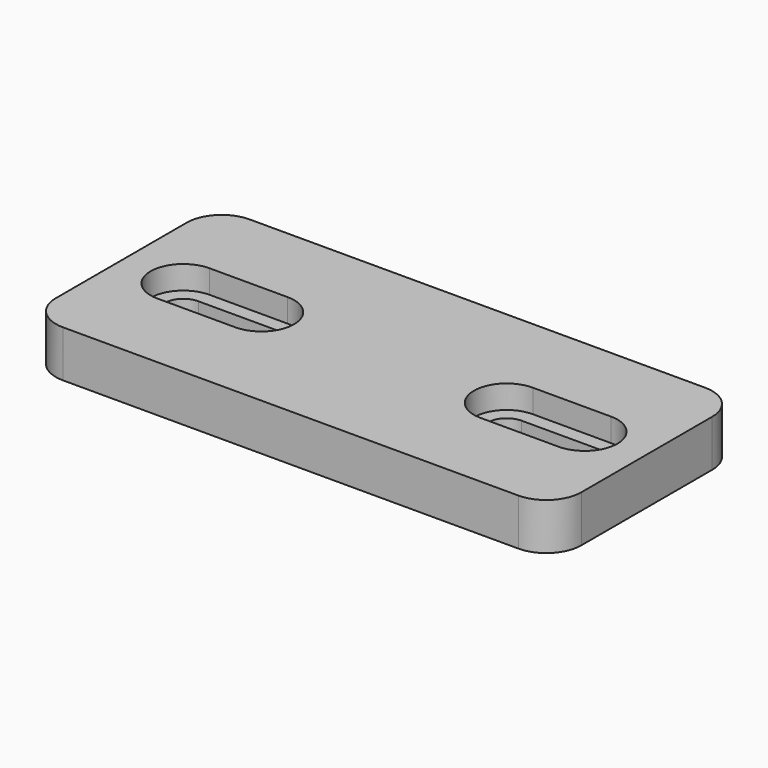
from build123d import *

# Parameters (mm, degrees)
SKETCH_W        = 45
SKETCH_H        = 20
SKETCH_R        = 1.6
PAD_DEPTH       = 4
FILLET_R        = 3
SKETCH001_R     = 2.8
POCKET_DEPTH    = 2
POCKET001_DEPTH = 4.001
POCKET002_DEPTH = 2


with BuildPart() as part:
    # Sketch → Pad (new body)
    with BuildSketch(Plane.XY):
        Rectangle(SKETCH_W, SKETCH_H)
        with Locations((-17.186, 0)):
            Circle(SKETCH_R, mode=Mode.SUBTRACT)
        with Locations((17.186, 0)):
            Circle(SKETCH_R, mode=Mode.SUBTRACT)
    extrude(amount=PAD_DEPTH)

    # Fillet
    fillet_edges = [part.edges().sort_by_distance(p)[0] for p in [
        (22.5, 10, 2),
        (22.5, -10, 2),
        (-22.5, -10, 2),
        (-22.5, 10, 2),
    ]]
    fillet(fillet_edges, radius=FILLET_R)

    # Sketch001 (on Face5 of Fillet) → Pocket (cut)
    with BuildSketch(Plane.XY.offset(4)):
        with Locations((-17.186, 0)):
            Circle(SKETCH001_R)
        with Locations((17.186, 0)):
            Circle(SKETCH001_R)
    extrude(amount=-POCKET_DEPTH, mode=Mode.SUBTRACT)

    # Sketch002 (on Face5 of Pocket) → Pocket001 (cut, through all)
    with BuildSketch(Plane.XY.offset(4)):
        with BuildLine():
            ThreePointArc((-17.186, 1.6), (-18.786, 0), (-17.186, -1.6))
            Line((-17.186, -1.6), (-10.5, -1.6))
            ThreePointArc((-10.5, -1.6), (-8.9, 0), (-10.5, 1.6))
            Line((-10.5, 1.6), (-17.186, 1.6))
        make_face()
        with BuildLine():
            ThreePointArc((10.5, 1.6), (8.9, 0), (10.5, -1.6))
            Line((10.5, -1.6), (17.186, -1.6))
            ThreePointArc((17.186, -1.6), (18.786, 0), (17.186, 1.6))
            Line((17.186, 1.6), (10.5, 1.6))
        make_face()
    extrude(amount=-POCKET001_DEPTH, mode=Mode.SUBTRACT)

    # Sketch003 (on Face5 of Pocket001) → Pocket002 (cut)
    with BuildSketch(Plane.XY.offset(4)):
        with BuildLine():
            ThreePointArc((-17.186, 2.8), (-19.986, 0), (-17.186, -2.8))
            Line((-17.186, -2.8), (-10.5, -2.8))
            ThreePointArc((-10.5, -2.8), (-7.7, 0), (-10.5, 2.8))
            Line((-10.5, 2.8), (-17.186, 2.8))
        make_face()
        with BuildLine():
            ThreePointArc((10.5, 2.8), (7.7, 0), (10.5, -2.8))
            Line((10.5, -2.8), (17.186, -2.8))
            ThreePointArc((17.186, -2.8), (19.986, 0), (17.186, 2.8))
            Line((17.186, 2.8), (10.5, 2.8))
        make_face()
    extrude(amount=-POCKET002_DEPTH, mode=Mode.SUBTRACT)


solid = part.part
